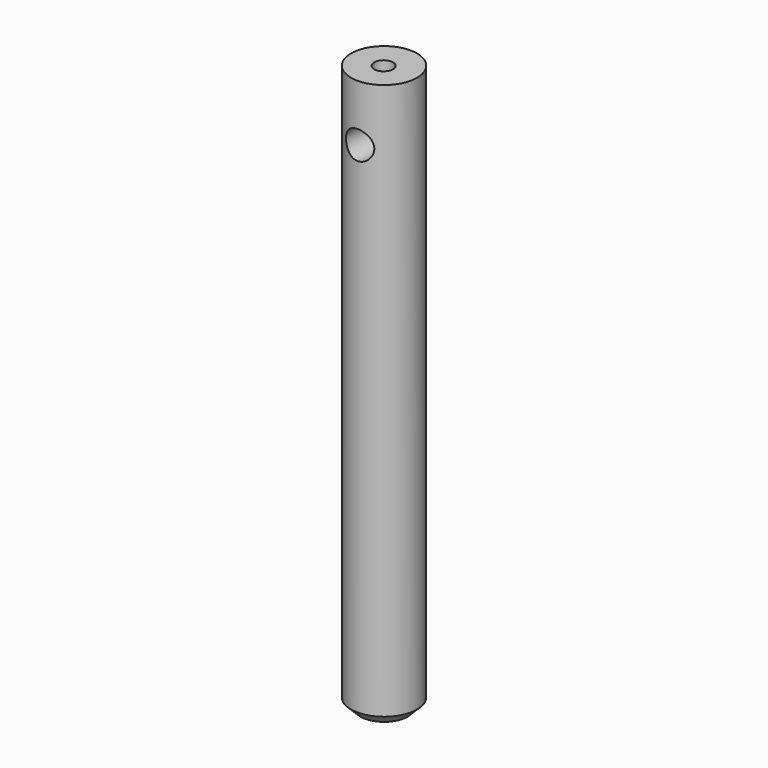
from build123d import *

# Parameters (mm, degrees)
F0_R          = 11.1125
F1_DEPTH      = 190.5
F2_SIZE       = 3.175
F3_R          = 4.7625
F4_DEPTH      = 25.4
F4_DEPTH_BACK = 25.4
F5_R          = 3.175
F6_DEPTH      = 12.7


with BuildPart() as f1:
    # F0 (on Top) → F1 (new body)
    with BuildSketch(Plane.XY):
        with Locations((-1.1552e-06, 0.1656521781)):
            Circle(F0_R)
    extrude(amount=F1_DEPTH)

    # F2
    f2_edges = [f1.edges().sort_by_distance(p)[0] for p in [
        (-11.112501, 0.165652, 0),
    ]]
    chamfer(f2_edges, length=F2_SIZE)

    # F3 (on Front) → F4 (cut, two sides)
    with BuildSketch(Plane.XZ) as f4_sk:
        with Locations((0, 171.45)):
            Circle(F3_R)
    extrude(amount=-F4_DEPTH, mode=Mode.SUBTRACT)
    extrude(f4_sk.sketch, amount=F4_DEPTH_BACK, mode=Mode.SUBTRACT)

    # F5 (on face) → F6 (cut)
    with BuildSketch(Plane.XY.offset(190.5)):
        Circle(F5_R)
    extrude(amount=-F6_DEPTH, mode=Mode.SUBTRACT)


solid = f1.part
